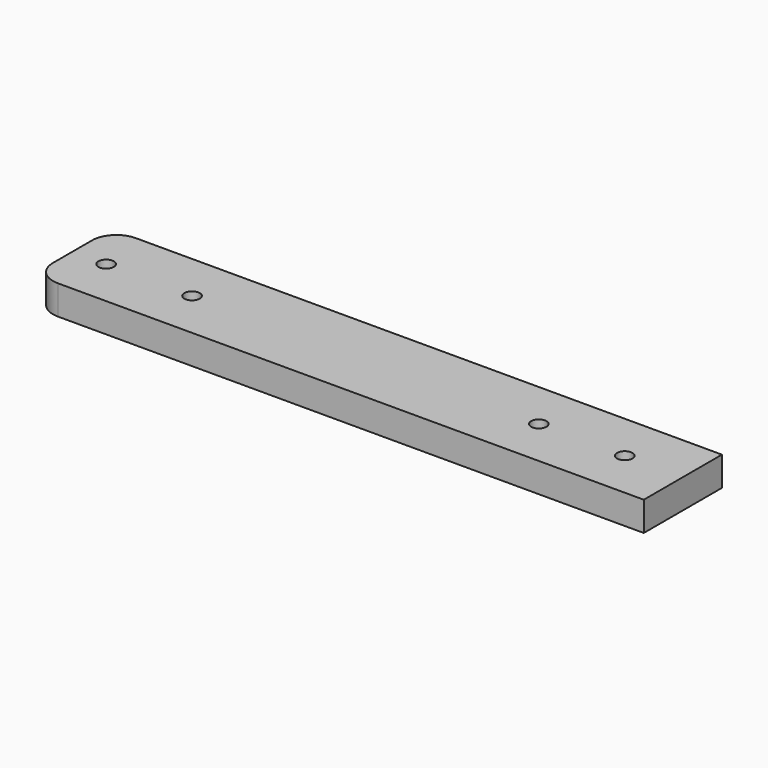
from build123d import *

# Parameters (mm, degrees)
F0_W     = 120
F0_H     = 20
F1_DEPTH = 6
F2_R     = 1.575
F3_DEPTH = 6
F4_W     = 5
F4_H     = 20
F5_DEPTH = 6
F6_R     = 5


with BuildPart() as f1:
    # F0 (on Top) → F1 (new body)
    with BuildSketch(Plane.XY):
        Rectangle(F0_W, F0_H)
    extrude(amount=F1_DEPTH)

    # F2 (on face) → F3 (cut, through all)
    with BuildSketch(Plane.XY.offset(6)):
        with Locations((-53.1, 0)):
            Circle(F2_R)
        with Locations((-35.5, 0)):
            Circle(F2_R)
        with Locations((53.1, 0)):
            Circle(F2_R)
        with Locations((35.5, 0)):
            Circle(F2_R)
    extrude(amount=-F3_DEPTH, mode=Mode.SUBTRACT)

    # F4 (on Top) → F5 (join, through all)
    with BuildSketch(Plane.XY):
        with Locations((62.5, 0)):
            Rectangle(F4_W, F4_H)
    extrude(amount=F5_DEPTH)

    # F6
    f6_edges = [f1.edges().sort_by_distance(p)[0] for p in [
        (-60, -10, 3),
        (-60, 10, 3),
    ]]
    fillet(f6_edges, radius=F6_R)


solid = f1.part
